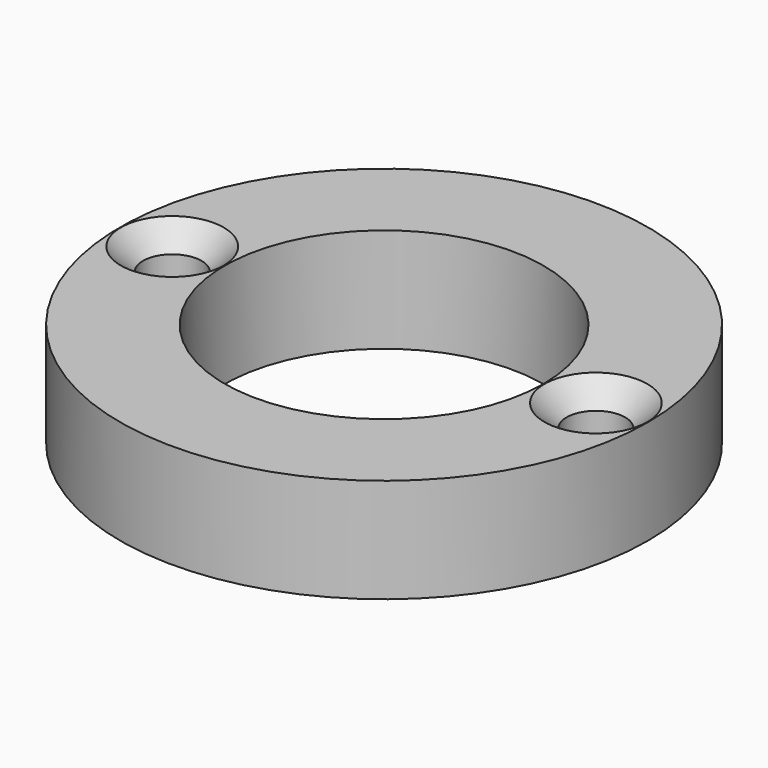
from build123d import *

# Parameters (mm, degrees)
SKETCH_R     = 20.25
SKETCH_R_2   = 12.25
SKETCH_R_3   = 2.25
PAD_DEPTH    = 8
CHAMFER_SIZE = 1.7


with BuildPart() as part:
    # Sketch → Pad (new body)
    with BuildSketch(Plane.XY):
        Circle(SKETCH_R)
        Circle(SKETCH_R_2, mode=Mode.SUBTRACT)
        with Locations((16.25, 0)):
            Circle(SKETCH_R_3, mode=Mode.SUBTRACT)
        with Locations((-16.25, 0)):
            Circle(SKETCH_R_3, mode=Mode.SUBTRACT)
    extrude(amount=PAD_DEPTH)

    # Chamfer
    chamfer_edges = [part.edges().sort_by_distance(p)[0] for p in [
        (14, 0, 8),
        (-18.5, 0, 8),
    ]]
    chamfer(chamfer_edges, length=CHAMFER_SIZE)


solid = part.part
